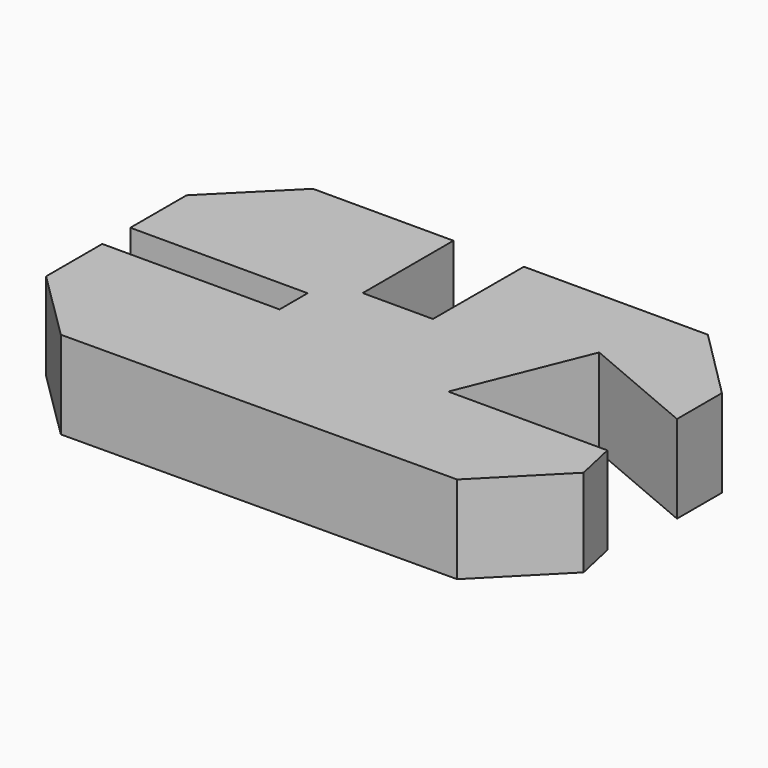
from build123d import *

# Parameters (mm, degrees)
F1_DEPTH = 25


with BuildPart() as f1:
    # F0 (on Top) → F1 (new body)
    with BuildSketch(Plane.XY):
        Polygon((-97.570581, -55.533905), (-77.451173, -75.436151), (34.947172, -74.826264), (54.849419, -54.706856), (52.254944, -42.990683), (6.954944, -42.990683), (21.377298, -7.294105), (54.924164, -21.533905), (54.924164, -5.533905), (34.913042, 14.477217), (-17.486958, 14.477217), (-17.55946, -17.822783), (-37.55946, -17.822783), (-37.55946, 14.477217), (-77.55946, 14.477217), (-97.570581, -5.533905), (-97.570581, -25.533905), (-47.070581, -25.533905), (-47.070581, -35.533905), (-97.570581, -35.533905), align=None)
    extrude(amount=F1_DEPTH)


solid = f1.part
